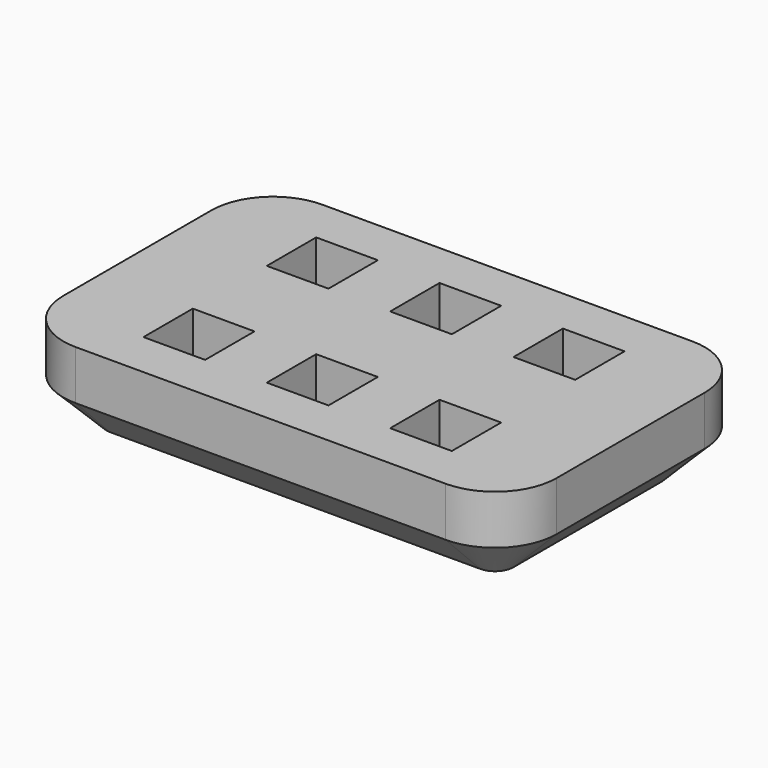
from build123d import *

# Parameters (mm, degrees)
F0_W     = 12.7
F0_H     = 12.7
F1_DEPTH = 38.1
F2_DEPTH = 25.4
F3_R     = 25.4
F4_SIZE  = 17.78


with BuildPart() as f1:
    # F0 (on Top) → F1 (new body)
    with BuildSketch(Plane.XY):
        Polygon((101.6, 63.5), (-101.6, 63.5), (-101.6, 31.75), (-63.5, 31.75), (-63.5, 44.45), (-38.1, 44.45), (-38.1, 31.75), (-12.7, 31.75), (-12.7, 44.45), (12.7, 44.45), (12.7, 31.75), (38.1, 31.75), (38.1, 44.45), (63.5, 44.45), (63.5, 31.75), (101.6, 31.75), align=None)
        Polygon((-63.5, 31.75), (-101.6, 31.75), (-101.6, -31.75), (-63.5, -31.75), (-63.5, -19.05), (-38.1, -19.05), (-38.1, -31.75), (-12.7, -31.75), (-12.7, -19.05), (0, -19.05), (0, 0), (0, 19.05), (-12.7, 19.05), (-12.7, 31.75), (-38.1, 31.75), (-38.1, 19.05), (-63.5, 19.05), align=None)
        Polygon((101.6, -31.75), (101.6, 31.75), (63.5, 31.75), (63.5, 19.05), (38.1, 19.05), (38.1, 31.75), (12.7, 31.75), (12.7, 19.05), (0, 19.05), (0, 0), (0, -19.05), (12.7, -19.05), (12.7, -31.75), (38.1, -31.75), (38.1, -19.05), (63.5, -19.05), (63.5, -31.75), align=None)
        Polygon((-63.5, -31.75), (-101.6, -31.75), (-101.6, -63.5), (101.6, -63.5), (101.6, -31.75), (63.5, -31.75), (63.5, -44.45), (38.1, -44.45), (38.1, -31.75), (12.7, -31.75), (12.7, -44.45), (-12.7, -44.45), (-12.7, -31.75), (-38.1, -31.75), (-38.1, -44.45), (-63.5, -44.45), align=None)
        Polygon((-50.8, 31.75), (-63.5, 31.75), (-63.5, 19.05), (-38.1, 19.05), (-38.1, 31.75), align=None)
        Polygon((-63.5, 44.45), (-63.5, 31.75), (-50.8, 31.75), (-38.1, 31.75), (-38.1, 44.45), align=None)
        Polygon((-12.7, 44.45), (-12.7, 31.75), (0, 31.75), (12.7, 31.75), (12.7, 44.45), align=None)
        with Locations((-6.35, 25.4)):
            Rectangle(F0_W, F0_H)
        with Locations((6.35, 25.4)):
            Rectangle(F0_W, F0_H)
        Polygon((63.5, 19.05), (63.5, 31.75), (50.8, 31.75), (38.1, 31.75), (38.1, 19.05), align=None)
        Polygon((50.8, 31.75), (63.5, 31.75), (63.5, 44.45), (38.1, 44.45), (38.1, 31.75), align=None)
        Polygon((50.8, -31.75), (63.5, -31.75), (63.5, -19.05), (38.1, -19.05), (38.1, -31.75), align=None)
        Polygon((63.5, -44.45), (63.5, -31.75), (50.8, -31.75), (38.1, -31.75), (38.1, -44.45), align=None)
        Polygon((0, -31.75), (-12.7, -31.75), (-12.7, -44.45), (12.7, -44.45), (12.7, -31.75), align=None)
        with Locations((-6.35, -25.4)):
            Rectangle(F0_W, F0_H)
        with Locations((6.35, -25.4)):
            Rectangle(F0_W, F0_H)
        Polygon((-63.5, -19.05), (-63.5, -31.75), (-50.8, -31.75), (-38.1, -31.75), (-38.1, -19.05), align=None)
        Polygon((-50.8, -31.75), (-63.5, -31.75), (-63.5, -44.45), (-38.1, -44.45), (-38.1, -31.75), align=None)
    extrude(amount=-F1_DEPTH)

    # F0 (on Top) → F2 (cut)
    with BuildSketch(Plane.XY):
        Polygon((-63.5, 44.45), (-63.5, 31.75), (-50.8, 31.75), (-38.1, 31.75), (-38.1, 44.45), align=None)
        Polygon((-50.8, 31.75), (-63.5, 31.75), (-63.5, 19.05), (-38.1, 19.05), (-38.1, 31.75), align=None)
        Polygon((-63.5, -19.05), (-63.5, -31.75), (-50.8, -31.75), (-38.1, -31.75), (-38.1, -19.05), align=None)
        Polygon((-50.8, -31.75), (-63.5, -31.75), (-63.5, -44.45), (-38.1, -44.45), (-38.1, -31.75), align=None)
        with Locations((-6.35, -25.4)):
            Rectangle(F0_W, F0_H)
        with Locations((6.35, -25.4)):
            Rectangle(F0_W, F0_H)
        with Locations((-6.35, 25.4)):
            Rectangle(F0_W, F0_H)
        with Locations((6.35, 25.4)):
            Rectangle(F0_W, F0_H)
        Polygon((-12.7, 44.45), (-12.7, 31.75), (0, 31.75), (12.7, 31.75), (12.7, 44.45), align=None)
        Polygon((0, -31.75), (-12.7, -31.75), (-12.7, -44.45), (12.7, -44.45), (12.7, -31.75), align=None)
        Polygon((63.5, -44.45), (63.5, -31.75), (50.8, -31.75), (38.1, -31.75), (38.1, -44.45), align=None)
        Polygon((50.8, -31.75), (63.5, -31.75), (63.5, -19.05), (38.1, -19.05), (38.1, -31.75), align=None)
        Polygon((63.5, 19.05), (63.5, 31.75), (50.8, 31.75), (38.1, 31.75), (38.1, 19.05), align=None)
        Polygon((50.8, 31.75), (63.5, 31.75), (63.5, 44.45), (38.1, 44.45), (38.1, 31.75), align=None)
    extrude(amount=-F2_DEPTH, mode=Mode.SUBTRACT)

    # F3
    f3_edges = [f1.edges().sort_by_distance(p)[0] for p in [
        (-101.6, -63.5, -19.05),
        (101.6, -63.5, -19.05),
        (101.6, 63.5, -19.05),
        (-101.6, 63.5, -19.05),
    ]]
    fillet(f3_edges, radius=F3_R)

    # F4
    f4_edges = [f1.edges().sort_by_distance(p)[0] for p in [
        (0, -63.5, -38.1),
    ]]
    chamfer(f4_edges, length=F4_SIZE)


solid = f1.part
